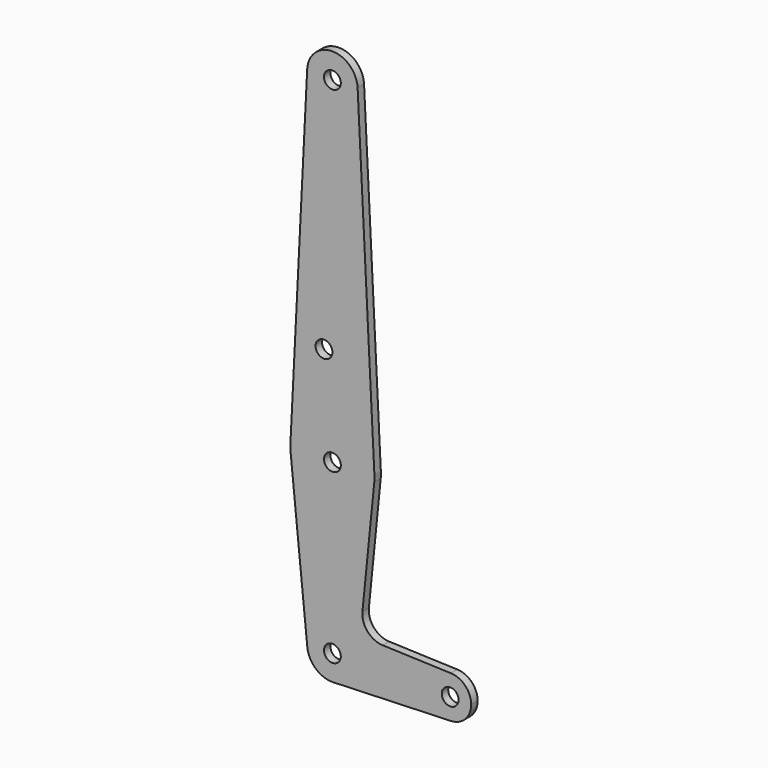
from build123d import *

# Parameters (mm, degrees)
F0_R     = 3.175
F1_DEPTH = 3.048


with BuildPart() as f1:
    # F0 (on Front) → F1 (new body)
    with BuildSketch(Plane.XZ):
        with BuildLine():
            ThreePointArc((9.525, 127), (9.522021, 127.238199), (9.513086, 127.47625))
            ThreePointArc((9.513086, 127.47625), (0, 136.525), (-9.513086, 127.47625))
            ThreePointArc((-9.513086, 127.47625), (-0.238199, 117.477979), (9.525, 127))
        make_face()
        with Locations((0, 127)):
            Circle(F0_R, mode=Mode.SUBTRACT)
        with BuildLine():
            ThreePointArc((15.795426, -1.5875), (15.855094, -0.794747), (15.875, 0))
            ThreePointArc((15.875, 0), (15.870035, 0.396999), (15.855144, 0.79375))
            ThreePointArc((15.855144, 0.79375), (0, 15.875), (-15.855144, 0.79375))
            ThreePointArc((-15.855144, 0.79375), (-15.87001, -0.397997), (-15.795426, -1.5875))
            ThreePointArc((-15.795426, -1.5875), (0, -15.875), (15.795426, -1.5875))
        make_face()
        Circle(F0_R, mode=Mode.SUBTRACT)
        with BuildLine():
            Line((11.341187, -45.906618), (15.795426, -1.5875))
            ThreePointArc((15.795426, -1.5875), (0, -15.875), (-15.795426, -1.5875))
            Line((-15.795426, -1.5875), (-9.477255, -64.4525))
            ThreePointArc((-9.477255, -64.4525), (-0.476848, -53.986944), (9.525, -63.5))
            ThreePointArc((9.525, -63.5), (6.854408, -70.113827), (0.340179, -73.018923))
            Line((0.340179, -73.018923), (44.733482, -71.432436))
            ThreePointArc((44.733482, -71.432436), (36.5125, -63.5), (44.733482, -55.567564))
            Line((44.733482, -55.567564), (18.9676, -54.646766))
            ThreePointArc((18.9676, -54.646766), (13.2612, -51.928641), (11.341187, -45.906618))
        make_face()
        with BuildLine():
            ThreePointArc((-15.855144, 0.79375), (0, 15.875), (15.855144, 0.79375))
            Line((15.855144, 0.79375), (9.513086, 127.47625))
            ThreePointArc((9.513086, 127.47625), (9.522021, 127.238199), (9.525, 127))
            ThreePointArc((9.525, 127), (-0.238199, 117.477979), (-9.513086, 127.47625))
            Line((-9.513086, 127.47625), (-15.855144, 0.79375))
        make_face()
        with Locations((-3.175, 36.5252)):
            Circle(F0_R, mode=Mode.SUBTRACT)
        with BuildLine():
            ThreePointArc((9.525, -63.5), (-0.476848, -53.986944), (-9.477255, -64.4525))
            ThreePointArc((-9.477255, -64.4525), (-6.262383, -70.67692), (0.340179, -73.018923))
            ThreePointArc((0.340179, -73.018923), (6.854408, -70.113827), (9.525, -63.5))
        make_face()
        with Locations((0, -63.5)):
            Circle(F0_R, mode=Mode.SUBTRACT)
        with BuildLine():
            ThreePointArc((52.3875, -63.5), (50.162007, -57.988477), (44.733482, -55.567564))
            ThreePointArc((44.733482, -55.567564), (36.5125, -63.5), (44.733482, -71.432436))
            ThreePointArc((44.733482, -71.432436), (50.162007, -69.011523), (52.3875, -63.5))
        make_face()
        with Locations((44.45, -63.5)):
            Circle(F0_R, mode=Mode.SUBTRACT)
    extrude(amount=F1_DEPTH)


solid = f1.part
